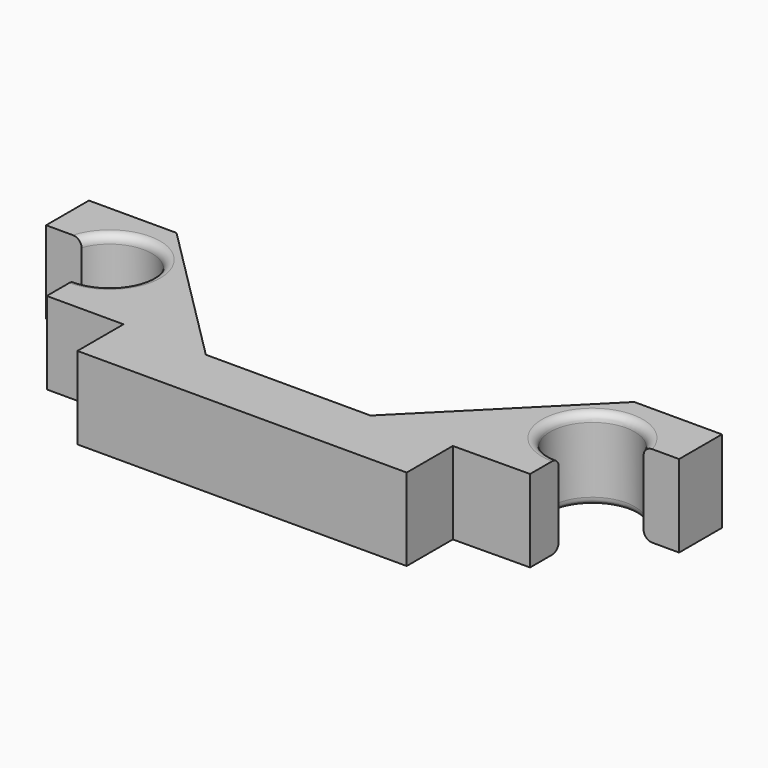
from build123d import *

# Parameters (mm, degrees)
F1_DEPTH = 10
F2_R     = 1
F3_R     = 1


with BuildPart() as f1:
    # F0 (on Top) → F1 (new body)
    with BuildSketch(Plane.XY):
        with BuildLine():
            Line((-20.85751, -17.803463), (-11.53251, -17.803463))
            Line((-11.53251, -17.803463), (-1.53251, -17.803463))
            Line((-1.53251, -17.803463), (-19.335973, 0))
            Line((-19.335973, 0), (-25.98251, 0))
            Line((-25.98251, 0), (-29.98251, 0))
            Line((-29.98251, 0), (-29.98251, -6.5))
            Line((-29.98251, -6.5), (-25.674472, -6.5))
            ThreePointArc((-25.674472, -6.5), (-16.660227, -5.309177), (-20.85751, -13.375))
            Line((-20.85751, -13.375), (-20.85751, -16.5))
            Line((-20.85751, -16.5), (-20.85751, -17.803463))
        make_face()
        Polygon((-1.53251, -17.803463), (-11.53251, -17.803463), (-11.53251, -24.803463), (8.46749, -24.803463), (8.46749, -17.803463), align=None)
        Polygon((18.46749, -17.803463), (8.46749, -17.803463), (8.46749, -24.803463), (28.46749, -24.803463), (28.46749, -17.803463), align=None)
        with BuildLine():
            Line((36.270953, 0), (18.46749, -17.803463))
            Line((18.46749, -17.803463), (28.46749, -17.803463))
            Line((28.46749, -17.803463), (37.79249, -17.720502))
            Line((37.79249, -17.720502), (37.79249, -13.375))
            ThreePointArc((37.79249, -13.375), (33.595207, -5.309177), (42.609452, -6.5))
            Line((42.609452, -6.5), (46.91749, -6.5))
            Line((46.91749, -6.5), (46.91749, 0))
            Line((46.91749, 0), (42.91749, 0))
            Line((42.91749, 0), (36.270953, 0))
        make_face()
    extrude(amount=F1_DEPTH)

    # F2
    f2_edges = [f1.edges().sort_by_distance(p)[0] for p in [
        (-16.660227, -5.309177, 10),
    ]]
    fillet(f2_edges, radius=F2_R)

    # F3
    f3_edges = [f1.edges().sort_by_distance(p)[0] for p in [
        (33.595207, -5.309177, 10),
        (-16.660227, -5.309177, 0),
        (33.595207, -5.309177, 0),
    ]]
    fillet(f3_edges, radius=F3_R)


solid = f1.part
